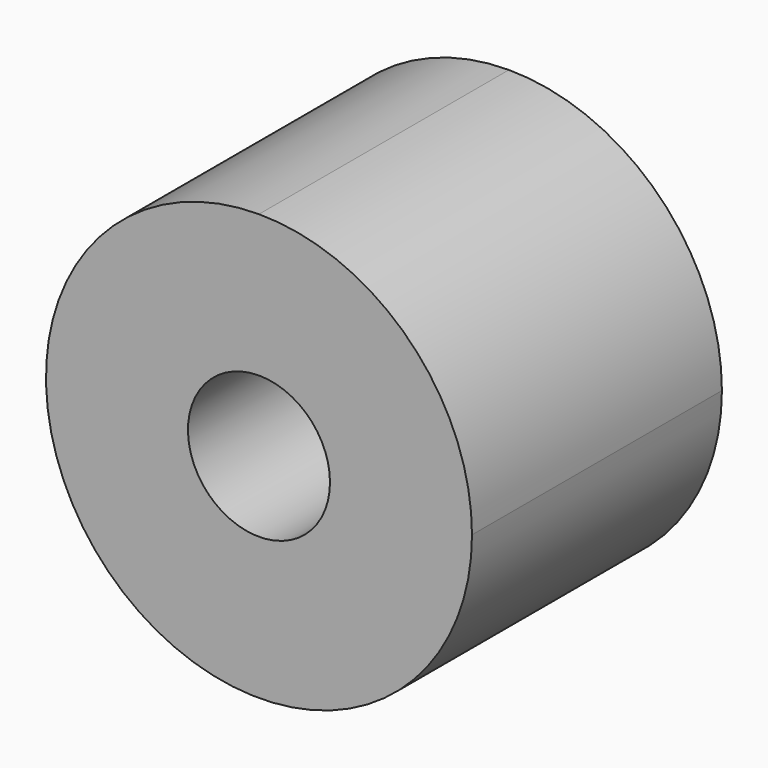
from build123d import *

# Parameters (mm, degrees)
F1_DEPTH = 8
F2_DEPTH = 3
F3_DEPTH = 11


with BuildPart() as f1:
    # F0 (on Front) → F1 (new body)
    with BuildSketch(Plane.XZ):
        with BuildLine():
            ThreePointArc((-30.070162, 46.37237), (-35.632137, 46.568408), (-41.166509, 47.155549))
            ThreePointArc((-41.166509, 47.155549), (-30.070162, -22.199768), (-18.973814, 47.155549))
            ThreePointArc((-18.973814, 47.155549), (-24.508186, 46.568408), (-30.070162, 46.37237))
        make_face()
        with BuildLine():
            ThreePointArc((-22.570162, 13.365558), (-35.373463, 8.062257), (-30.070162, 20.865558))
            ThreePointArc((-30.070162, 20.865558), (-24.766861, 18.668859), (-22.570162, 13.365558))
        make_face(mode=Mode.SUBTRACT)
    extrude(amount=F1_DEPTH)

    # F0 (on Front) → F2 (join)
    with BuildSketch(Plane.XZ):
        with BuildLine():
            ThreePointArc((-30.070162, 56.279502), (-36.966771, 53.357463), (-41.166509, 47.155549))
            ThreePointArc((-41.166509, 47.155549), (-35.632137, 46.568408), (-30.070162, 46.37237))
            Line((-30.070162, 46.37237), (-30.070162, 50.721558))
            ThreePointArc((-30.070162, 50.721558), (-32.070162, 52.721558), (-30.070162, 54.721558))
            Line((-30.070162, 54.721558), (-30.070162, 56.279502))
        make_face()
        with BuildLine():
            ThreePointArc((-30.070162, 46.37237), (-24.508186, 46.568408), (-18.973814, 47.155549))
            ThreePointArc((-18.973814, 47.155549), (-23.173552, 53.357463), (-30.070162, 56.279502))
            Line((-30.070162, 56.279502), (-30.070162, 54.721558))
            ThreePointArc((-30.070162, 54.721558), (-28.655948, 54.135772), (-28.070162, 52.721558))
            ThreePointArc((-28.070162, 52.721558), (-28.655948, 51.307344), (-30.070162, 50.721558))
            Line((-30.070162, 50.721558), (-30.070162, 46.37237))
        make_face()
    extrude(amount=F2_DEPTH)


with BuildPart() as f3:
    # F0 (on Front) → F3 (new body)
    with BuildSketch(Plane.XZ):
        with BuildLine():
            ThreePointArc((-22.570162, 13.365558), (-24.766861, 18.668859), (-30.070162, 20.865558))
            ThreePointArc((-30.070162, 20.865558), (-35.373463, 8.062257), (-22.570162, 13.365558))
        make_face()
        with BuildLine():
            ThreePointArc((-27.570162, 13.365558), (-31.837929, 11.597791), (-30.070162, 15.865558))
            ThreePointArc((-30.070162, 15.865558), (-28.302395, 15.133325), (-27.570162, 13.365558))
        make_face(mode=Mode.SUBTRACT)
    extrude(amount=-F3_DEPTH)


solid = f3.part
